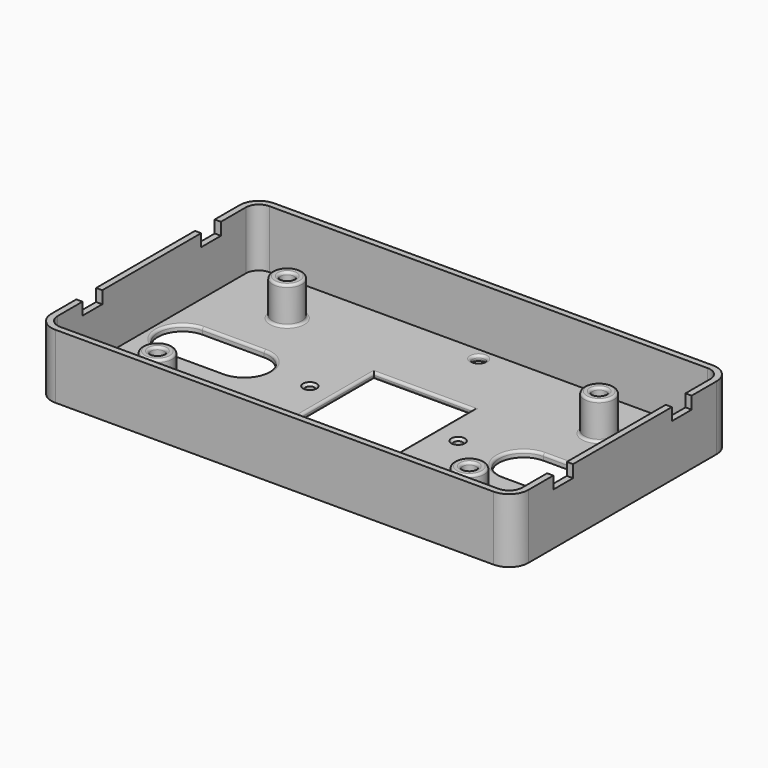
from build123d import *

# Parameters (mm, degrees)
SKETCH_R        = 1.75
SKETCH_R_2      = 2.5
SKETCH_W        = 40
SKETCH_H        = 40
PAD_DEPTH       = 2.5
FILLET_R        = 1
CHAMFER_SIZE    = 1
SKETCH001_R     = 6
SKETCH001_R_2   = 2.75
PAD001_DEPTH    = 15
FILLET001_R     = 1
PAD002_DEPTH    = 23.5
SKETCH003_W     = 10
SKETCH003_H     = 5
POCKET_DEPTH    = 2.5
SKETCH004_W     = 10
SKETCH004_H     = 5
POCKET001_DEPTH = 2.5


with BuildPart() as part:
    # Sketch → Pad (new body)
    with BuildSketch(Plane.XY):
        with BuildLine():
            Line((-96.48, 47.58), (-96.48, -47.58))
            ThreePointArc((-96.48, -47.58), (-94.195433, -53.095433), (-88.68, -55.38))
            Line((-88.68, -55.38), (88.68, -55.38))
            ThreePointArc((88.68, -55.38), (94.195433, -53.095433), (96.48, -47.58))
            Line((96.48, -47.58), (96.48, 47.58))
            ThreePointArc((96.48, 47.58), (94.195433, 53.095433), (88.68, 55.38))
            Line((88.68, 55.38), (-88.68, 55.38))
            ThreePointArc((-88.68, 55.38), (-94.195433, 53.095433), (-96.48, 47.58))
        make_face()
        with Locations((-30, 0)):
            Circle(SKETCH_R, mode=Mode.SUBTRACT)
        with Locations((30, 0)):
            Circle(SKETCH_R, mode=Mode.SUBTRACT)
        with Locations((0, 47.88)):
            Circle(SKETCH_R_2, mode=Mode.SUBTRACT)
        Rectangle(SKETCH_W, SKETCH_H, mode=Mode.SUBTRACT)
        with BuildLine():
            ThreePointArc((-81.48, 10), (-91.48, 0), (-81.48, -10))
            Line((-81.48, -10), (-56.48, -10))
            ThreePointArc((-56.48, -10), (-46.48, 0), (-56.48, 10))
            Line((-81.48, 10), (-56.48, 10))
        make_face(mode=Mode.SUBTRACT)
        with BuildLine():
            ThreePointArc((56.48, 10), (46.48, 0), (56.48, -10))
            Line((56.48, -10), (81.48, -10))
            ThreePointArc((81.48, -10), (91.48, 0), (81.48, 10))
            Line((56.48, 10), (81.48, 10))
        make_face(mode=Mode.SUBTRACT)
    extrude(amount=PAD_DEPTH)

    # Fillet
    fillet_edges = [part.edges().sort_by_distance(p)[0] for p in [
        (-20, 0, 2.5),
        (0, -20, 2.5),
        (20, 0, 2.5),
        (0, 20, 2.5),
        (0, -20, 0),
        (-20, 0, 0),
        (0, 20, 0),
        (20, 0, 0),
        (-2.5, 47.88, 2.5),
        (-2.5, 47.88, 0),
        (-68.98, 10, 2.5),
        (-91.48, 0, 2.5),
        (-68.98, -10, 2.5),
        (-46.48, 0, 2.5),
        (68.98, 10, 2.5),
        (46.48, 0, 2.5),
        (68.98, -10, 2.5),
        (91.48, 0, 2.5),
    ]]
    fillet(fillet_edges, radius=FILLET_R)

    # Chamfer
    chamfer_edges = [part.edges().sort_by_distance(p)[0] for p in [
        (-31.75, 0, 2.5),
        (28.25, 0, 2.5),
    ]]
    chamfer(chamfer_edges, length=CHAMFER_SIZE)

    # Sketch001 (on Face1 of Chamfer) → Pad001 (join)
    with BuildSketch(Plane.XY.offset(2.5)):
        with Locations((-64.63, 31.85)):
            Circle(SKETCH001_R)
        with Locations((-64.63, 31.85)):
            Circle(SKETCH001_R_2, mode=Mode.SUBTRACT)
        with Locations((-64.63, -33.8)):
            Circle(SKETCH001_R)
        with Locations((-64.63, -33.8)):
            Circle(SKETCH001_R_2, mode=Mode.SUBTRACT)
        with Locations((61.57, -33.8)):
            Circle(SKETCH001_R)
        with Locations((61.57, -33.8)):
            Circle(SKETCH001_R_2, mode=Mode.SUBTRACT)
        with Locations((61.57, 31.85)):
            Circle(SKETCH001_R)
        with Locations((61.57, 31.85)):
            Circle(SKETCH001_R_2, mode=Mode.SUBTRACT)
    extrude(amount=PAD001_DEPTH)

    # Fillet001
    fillet001_edges = [part.edges().sort_by_distance(p)[0] for p in [
        (-67.38, -33.8, 17.5),
        (-67.38, 31.85, 17.5),
        (58.82, -33.8, 17.5),
        (58.82, 31.85, 17.5),
        (55.57, 31.85, 17.5),
        (55.57, -33.8, 17.5),
        (-70.63, -33.8, 17.5),
        (-70.63, 31.85, 17.5),
        (-70.63, 31.85, 2.5),
        (-70.63, -33.8, 2.5),
        (55.57, -33.8, 2.5),
        (55.57, 31.85, 2.5),
    ]]
    fillet(fillet001_edges, radius=FILLET001_R)

    # Sketch002 → Pad002 (join)
    with BuildSketch(Plane.XY.offset(2.5)):
        with BuildLine():
            Line((-96.48, 47.58), (-96.48, -47.58))
            ThreePointArc((-96.48, -47.58), (-94.195433, -53.095433), (-88.68, -55.38))
            Line((-88.68, -55.38), (88.68, -55.38))
            ThreePointArc((88.68, -55.38), (94.195433, -53.095433), (96.48, -47.58))
            Line((96.48, -47.58), (96.48, 47.58))
            ThreePointArc((96.48, 47.58), (94.195433, 53.095433), (88.68, 55.38))
            Line((88.68, 55.38), (-88.68, 55.38))
            ThreePointArc((-88.68, 55.38), (-94.195433, 53.095433), (-96.48, 47.58))
        make_face()
        with BuildLine():
            Line((-93.98, 47.58), (-93.98, -47.58))
            ThreePointArc((-93.98, -47.58), (-92.427666, -51.327666), (-88.68, -52.88))
            Line((-88.68, -52.88), (88.68, -52.88))
            ThreePointArc((88.68, -52.88), (92.427666, -51.327666), (93.98, -47.58))
            Line((93.98, -47.58), (93.98, 47.58))
            ThreePointArc((93.98, 47.58), (92.427666, 51.327666), (88.68, 52.88))
            Line((88.68, 52.88), (-88.68, 52.88))
            ThreePointArc((-88.68, 52.88), (-92.427666, 51.327666), (-93.98, 47.58))
        make_face(mode=Mode.SUBTRACT)
    extrude(amount=PAD002_DEPTH)

    # Sketch003 (on Face75 of Pad002) → Pocket (cut)
    with BuildSketch(Plane(origin=(-96.48, 0, 0), x_dir=(0, -1, 0), z_dir=(-1, 0, 0))):
        with Locations((30, 23.5)):
            Rectangle(SKETCH003_W, SKETCH003_H)
        with Locations((-30, 23.5)):
            Rectangle(SKETCH003_W, SKETCH003_H)
    extrude(amount=-POCKET_DEPTH, mode=Mode.SUBTRACT)

    # Sketch004 (on Face59 of Pocket) → Pocket001 (cut)
    with BuildSketch(Plane.YZ.offset(96.48)):
        with Locations((-30, 23.5)):
            Rectangle(SKETCH004_W, SKETCH004_H)
        with Locations((30, 23.5)):
            Rectangle(SKETCH004_W, SKETCH004_H)
    extrude(amount=-POCKET001_DEPTH, mode=Mode.SUBTRACT)


solid = part.part
